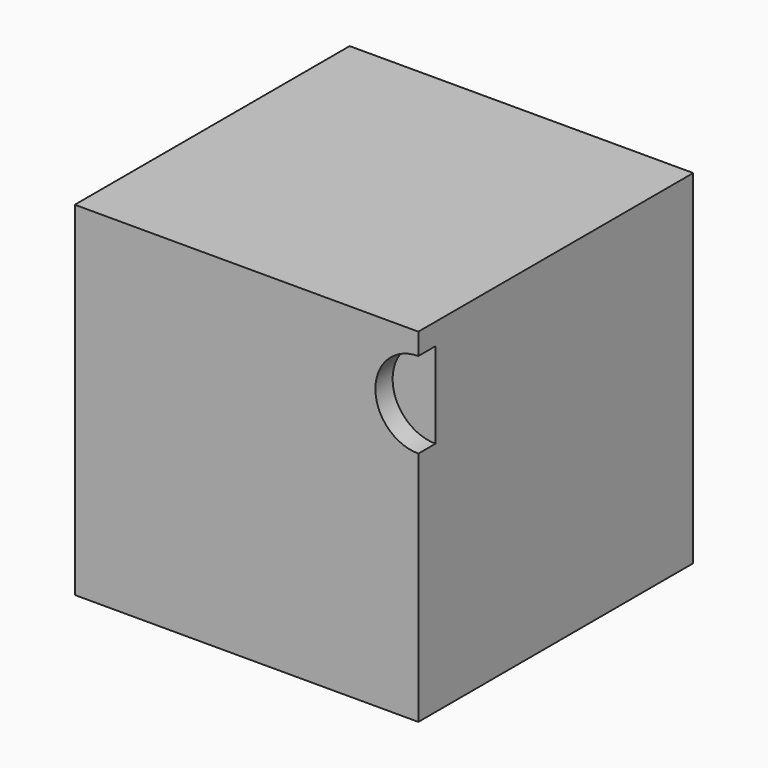
from build123d import *

# Parameters (mm, degrees)
F0_W     = 101.6
F0_H     = 101.6
F1_DEPTH = 50.8
F2_R     = 12.7
F3_DEPTH = 6.35


with BuildPart() as f1:
    # F0 (on Front) → F1 (new body, symmetric)
    with BuildSketch(Plane.XZ):
        Rectangle(F0_W, F0_H)
    extrude(amount=F1_DEPTH, both=True)

    # F2 (on face) → F3 (cut)
    with BuildSketch(Plane.XZ.offset(50.8)):
        with Locations((50.8, 31.75)):
            Circle(F2_R)
    extrude(amount=-F3_DEPTH, mode=Mode.SUBTRACT)


solid = f1.part
